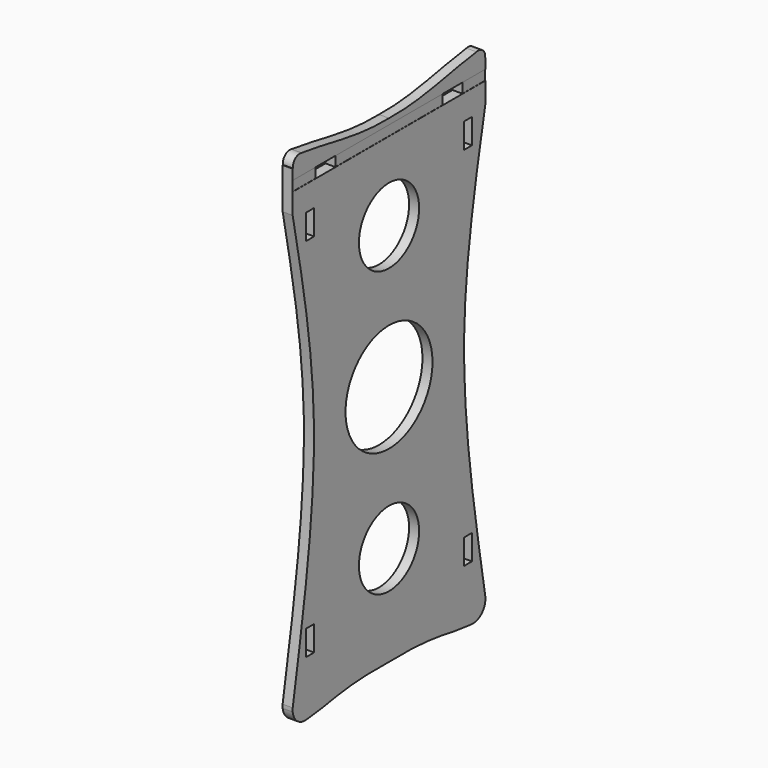
from build123d import *

# Parameters (mm, degrees)
F0_W     = 144
F0_H     = 300
F1_DEPTH = 6
F3_DEPTH = 0.1
F4_R     = 22.5
F4_R_2   = 32.5
F5_DEPTH = 25
F6_W     = 15
F6_H     = 6
F7_DEPTH = 25
F8_W     = 6
F8_H     = 15
F9_DEPTH = 25


with BuildPart() as f1:
    # F0 (on Right) → F1 (new body)
    with BuildSketch(Plane.YZ):
        Rectangle(F0_W, F0_H)
    extrude(amount=F1_DEPTH)

    # F2 (on face) → F3 (cut)
    with BuildSketch(Plane.YZ.offset(6)):
        Polygon((-75, 132), (75, 132), (75, 138), (0, 138), (-75, 138), align=None)
    extrude(amount=-F3_DEPTH, mode=Mode.SUBTRACT)

    # F4 (on face) → F5 (intersect)
    with BuildSketch(Plane.YZ.offset(6)):
        with BuildLine():
            add(Edge.make_bspline(
                [(-72, 119.5738017559), (-64.2497774345, 80.5000488248), (-48.1346297131, -0.7465599275), (-63.8451208348, -92.1644998818), (-72, -139.617010951)],
                knots=[0, 0, 0, 0, 0.4809278016, 1, 1, 1, 1], degree=3))
            ThreePointArc((-72, -139.617010951), (-69.2733831197, -147.3778685956), (-61.4766031504, -150))
            add(Edge.make_bspline(
                [(0, -144.7299867868), (-36.2115949392, -144.0225094557), (-40.9844021002, -148.2433289289), (-61.4766031504, -150)],
                knots=[0, 0, 0, 0, 61.7020726895, 61.7020726895, 61.7020726895, 61.7020726895], degree=3))
            add(Edge.make_bspline(
                [(0, -144.7299867868), (36.2115949392, -144.0225094557), (40.9844021002, -148.2433289289), (61.4766031504, -150)],
                knots=[0, 0, 0, 0, 61.7020726895, 61.7020726895, 61.7020726895, 61.7020726895], degree=3))
            ThreePointArc((61.4766031504, -150), (69.2733831197, -147.3778685956), (72, -139.617010951))
            add(Edge.make_bspline(
                [(72, 119.5738017559), (64.2497774345, 80.5000488248), (48.1346297131, -0.7465599275), (63.8451208348, -92.1644998818), (72, -139.617010951)],
                knots=[0, 0, 0, 0, 0.4809278016, 1, 1, 1, 1], degree=3))
            Line((72, 119.5738017559), (83.392560482, 131.8830251694))
            Line((83.392560482, 131.8830251694), (71.9000700982, 144.2635640774))
            ThreePointArc((71.9000700982, 144.2635640774), (70.0901190751, 148.7192160834), (65.4091020209, 149.8223193611))
            add(Edge.make_bspline(
                [(65.4091020209, 149.8223193611), (43.2062713991, 146.9935488104), (25.1373257488, 140.970274806), (0, 141.4896994829)],
                knots=[0, 0, 0, 0, 65.9377219898, 65.9377219898, 65.9377219898, 65.9377219898], degree=3))
            add(Edge.make_bspline(
                [(-65.4091020209, 149.8223193611), (-43.2062713991, 146.9935488104), (-25.1373257488, 140.970274806), (0, 141.4896994829)],
                knots=[0, 0, 0, 0, 65.9377219898, 65.9377219898, 65.9377219898, 65.9377219898], degree=3))
            ThreePointArc((-65.4091020209, 149.8223193611), (-70.0901190751, 148.7192160834), (-71.9000700982, 144.2635640774))
            Line((-71.9000700982, 144.2635640774), (-83.392560482, 131.8830251694))
            Line((-83.392560482, 131.8830251694), (-72, 119.5738017559))
        make_face()
        with Locations((0, -85)):
            Circle(F4_R, mode=Mode.SUBTRACT)
        Circle(F4_R_2, mode=Mode.SUBTRACT)
        with Locations((0, 85)):
            Circle(F4_R, mode=Mode.SUBTRACT)
    extrude(amount=-F5_DEPTH, mode=Mode.INTERSECT)

    # F6 (on face) → F7 (cut)
    with BuildSketch(Plane.YZ.offset(5.9)):
        with Locations((-47.5, 135)):
            Rectangle(F6_W, F6_H)
        with Locations((47.5, 135)):
            Rectangle(F6_W, F6_H)
    extrude(amount=-F7_DEPTH, mode=Mode.SUBTRACT)

    # F8 (on face) → F9 (cut)
    with BuildSketch(Plane.YZ.offset(6)):
        with Locations((59, 109.5)):
            Rectangle(F8_W, F8_H)
        with Locations((59, -109.5)):
            Rectangle(F8_W, F8_H)
        with Locations((-59, 109.5)):
            Rectangle(F8_W, F8_H)
        with Locations((-59, -109.5)):
            Rectangle(F8_W, F8_H)
    extrude(amount=-F9_DEPTH, mode=Mode.SUBTRACT)


solid = f1.part
